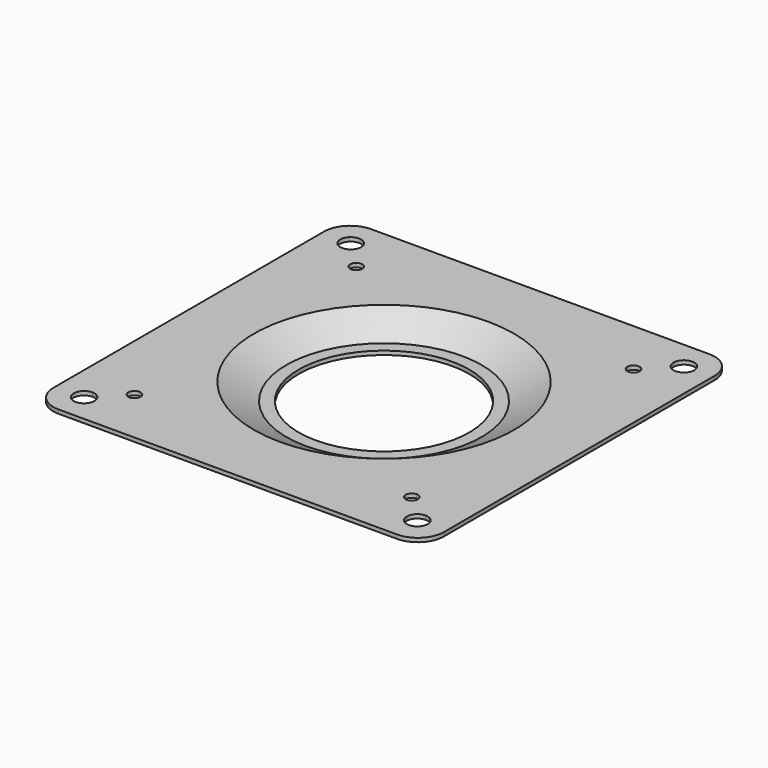
from build123d import *

# Parameters (mm, degrees)
F0_W     = 5.08
F0_H     = 0.762
F0_W_2   = 2.413
F2_W     = 76.2
F2_H     = 76.2
F3_DEPTH = 0.762
F4_R     = 5.08


with BuildPart() as f1:
    # F0 (on Right) → F1 (revolve)
    with BuildSketch(Plane.YZ):
        with Locations((-27.94, 3.683)):
            Rectangle(F0_W, F0_H)
        Polygon((-25.4, 3.302), (-19.05, 0), (-19.05, 0.762), (-25.4, 4.064), align=None)
        with Locations((-17.8435, 0.381)):
            Rectangle(F0_W_2, F0_H)
    revolve(axis=Axis((0, 0, 0.2757511821), (0, 0, 1)))

    # F2 (on face) → F3 (join, through all)
    with BuildSketch(Plane.XY.offset(4.064)):
        Rectangle(F2_W, F2_H)
        with BuildLine():
            ThreePointArc((-32.512, 30.48), (-34.3893232101, 31.7343872654), (-33.9488409794, 33.9488409794))
            ThreePointArc((-33.9488409794, 33.9488409794), (-31.7343872654, 34.3893232101), (-30.48, 32.512))
            Line((-30.48, 32.512), (30.48, 32.512))
            ThreePointArc((30.48, 32.512), (32.512, 34.544), (34.544, 32.512))
            ThreePointArc((34.544, 32.512), (33.9488409794, 31.0751590206), (32.512, 30.48))
            Line((32.512, 30.48), (32.512, -30.48))
            ThreePointArc((32.512, -30.48), (33.9488409794, -31.0751590206), (34.544, -32.512))
            ThreePointArc((34.544, -32.512), (32.512, -34.544), (30.48, -32.512))
            Line((30.48, -32.512), (-30.48, -32.512))
            ThreePointArc((-30.48, -32.512), (-33.9488409794, -33.9488409794), (-32.512, -30.48))
            Line((-32.512, -30.48), (-32.512, 30.48))
        make_face(mode=Mode.SUBTRACT)
        Rectangle(F2_W, F2_H)
        with BuildLine():
            ThreePointArc((-32.512, 30.48), (-34.3893232101, 31.7343872654), (-33.9488409794, 33.9488409794))
            ThreePointArc((-33.9488409794, 33.9488409794), (-31.7343872654, 34.3893232101), (-30.48, 32.512))
            Line((-30.48, 32.512), (30.48, 32.512))
            ThreePointArc((30.48, 32.512), (32.512, 34.544), (34.544, 32.512))
            ThreePointArc((34.544, 32.512), (33.9488409794, 31.0751590206), (32.512, 30.48))
            Line((32.512, 30.48), (32.512, -30.48))
            ThreePointArc((32.512, -30.48), (33.9488409794, -31.0751590206), (34.544, -32.512))
            ThreePointArc((34.544, -32.512), (32.512, -34.544), (30.48, -32.512))
            Line((30.48, -32.512), (-30.48, -32.512))
            ThreePointArc((-30.48, -32.512), (-33.9488409794, -33.9488409794), (-32.512, -30.48))
            Line((-32.512, -30.48), (-32.512, 30.48))
        make_face(mode=Mode.SUBTRACT)
        with BuildLine():
            Line((30.48, 32.512), (-30.48, 32.512))
            ThreePointArc((-30.48, 32.512), (-30.6346767899, 31.7343872654), (-31.0751590206, 31.0751590206))
            ThreePointArc((-31.0751590206, 31.0751590206), (-31.7343872654, 30.6346767899), (-32.512, 30.48))
            Line((-32.512, 30.48), (-32.512, -30.48))
            ThreePointArc((-32.512, -30.48), (-31.0751590206, -31.0751590206), (-30.48, -32.512))
            Line((-30.48, -32.512), (30.48, -32.512))
            ThreePointArc((30.48, -32.512), (31.0751590206, -31.0751590206), (32.512, -30.48))
            Line((32.512, -30.48), (32.512, 30.48))
            ThreePointArc((32.512, 30.48), (31.0751590206, 31.0751590206), (30.48, 32.512))
        make_face()
        with BuildLine():
            ThreePointArc((-27.051, 25.8572), (-28.1539273859, 26.5941525184), (-27.8951440754, 27.8951440754))
            ThreePointArc((-27.8951440754, 27.8951440754), (-26.5941525184, 28.1539273859), (-25.8572, 27.051))
            Line((-25.8572, 27.051), (-14.0454191465, 27.051))
            ThreePointArc((-14.0454191465, 27.051), (0, 30.48), (14.0454191465, 27.051))
            Line((14.0454191465, 27.051), (25.8572, 27.051))
            ThreePointArc((25.8572, 27.051), (27.051, 28.2448), (28.2448, 27.051))
            ThreePointArc((28.2448, 27.051), (27.8951440754, 26.2068559246), (27.051, 25.8572))
            Line((27.051, 25.8572), (27.051, 14.0454191465))
            ThreePointArc((27.051, 14.0454191465), (29.6103434631, 7.2289667311), (30.48, 0))
            ThreePointArc((30.48, 0), (29.6103434631, -7.2289667311), (27.051, -14.0454191465))
            Line((27.051, -14.0454191465), (27.051, -25.8572))
            ThreePointArc((27.051, -25.8572), (27.8951440754, -26.2068559246), (28.2448, -27.051))
            ThreePointArc((28.2448, -27.051), (27.051, -28.2448), (25.8572, -27.051))
            Line((25.8572, -27.051), (14.0454191465, -27.051))
            ThreePointArc((14.0454191465, -27.051), (0, -30.48), (-14.0454191465, -27.051))
            Line((-14.0454191465, -27.051), (-25.8572, -27.051))
            ThreePointArc((-25.8572, -27.051), (-27.8951440754, -27.8951440754), (-27.051, -25.8572))
            Line((-27.051, -25.8572), (-27.051, -14.0454191465))
            ThreePointArc((-27.051, -14.0454191465), (-30.48, 0), (-27.051, 14.0454191465))
            Line((-27.051, 14.0454191465), (-27.051, 25.8572))
        make_face(mode=Mode.SUBTRACT)
        with BuildLine():
            Line((27.051, -25.8572), (27.051, -14.0454191465))
            ThreePointArc((27.051, -14.0454191465), (21.5526146906, -21.5526146906), (14.0454191465, -27.051))
            Line((14.0454191465, -27.051), (25.8572, -27.051))
            ThreePointArc((25.8572, -27.051), (26.2068559246, -26.2068559246), (27.051, -25.8572))
        make_face()
        with BuildLine():
            Line((25.8572, 27.051), (14.0454191465, 27.051))
            ThreePointArc((14.0454191465, 27.051), (21.5526146906, 21.5526146906), (27.051, 14.0454191465))
            Line((27.051, 14.0454191465), (27.051, 25.8572))
            ThreePointArc((27.051, 25.8572), (26.2068559246, 26.2068559246), (25.8572, 27.051))
        make_face()
        with BuildLine():
            ThreePointArc((-14.0454191465, -27.051), (-21.5526146906, -21.5526146906), (-27.051, -14.0454191465))
            Line((-27.051, -14.0454191465), (-27.051, -25.8572))
            ThreePointArc((-27.051, -25.8572), (-26.2068559246, -26.2068559246), (-25.8572, -27.051))
            Line((-25.8572, -27.051), (-14.0454191465, -27.051))
        make_face()
        with BuildLine():
            ThreePointArc((-26.2068559246, 26.2068559246), (-26.5941525184, 25.9480726141), (-27.051, 25.8572))
            Line((-27.051, 25.8572), (-27.051, 14.0454191465))
            ThreePointArc((-27.051, 14.0454191465), (-24.589984475, 18.0100822741), (-21.5526146906, 21.5526146906))
            Line((-21.5526146906, 21.5526146906), (-26.2068559246, 26.2068559246))
        make_face()
        with BuildLine():
            Line((-14.0454191465, 27.051), (-25.8572, 27.051))
            ThreePointArc((-25.8572, 27.051), (-25.9480726141, 26.5941525184), (-26.2068559246, 26.2068559246))
            Line((-26.2068559246, 26.2068559246), (-21.5526146906, 21.5526146906))
            ThreePointArc((-21.5526146906, 21.5526146906), (-18.0100822741, 24.589984475), (-14.0454191465, 27.051))
        make_face()
    extrude(amount=-F3_DEPTH)

    # F4
    f4_edges = [f1.edges().sort_by_distance(p)[0] for p in [
        (-38.1, -38.1, 3.683),
        (38.1, -38.1, 3.683),
        (-38.1, 38.1, 3.683),
        (38.1, 38.1, 3.683),
    ]]
    fillet(f4_edges, radius=F4_R)


solid = f1.part
